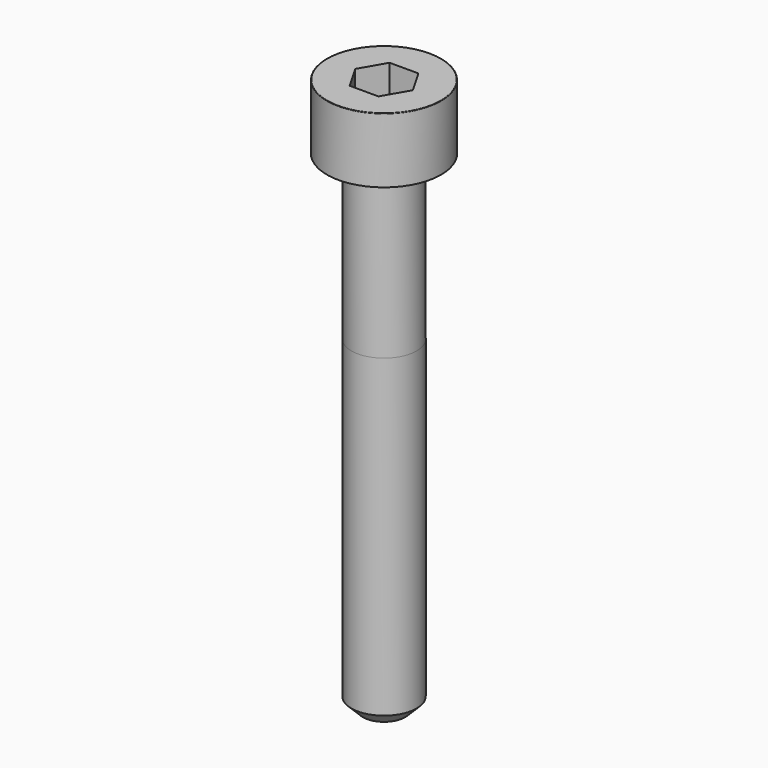
from build123d import *

# Parameters (mm, degrees)
POCKET_DEPTH = 3.06


with BuildPart() as part:
    # Sketch → Revolve (revolve)
    with BuildSketch(Plane.YZ):
        with BuildLine():
            Line((1.999, 0), (3.5, 0))
            Line((3.5, 0), (3.5, 3.97229))
            ThreePointArc((3.5, 3.97229), (3.491884, 3.991884), (3.47229, 4))
            Line((3.47229, 4), (0, 4))
            Line((0, -30), (0, 4))
            Line((1.3, -30), (0, -30))
            Line((2, -29.3), (1.3, -30))
            Line((2, -10), (2, -29.3))
            Line((1.999, 0), (2, -10))
        make_face()
    revolve(axis=Axis((0, 0, 0), (0, 0, 1)))

    # Sketch001 → Pocket (cut)
    with BuildSketch(Plane.XY.offset(4)):
        Polygon((1.766692, 0), (0.883346, 1.53), (-0.883346, 1.53), (-1.766692, 0), (-0.883346, -1.53), (0.883346, -1.53), align=None)
    extrude(amount=-POCKET_DEPTH, mode=Mode.SUBTRACT)


solid = part.part
